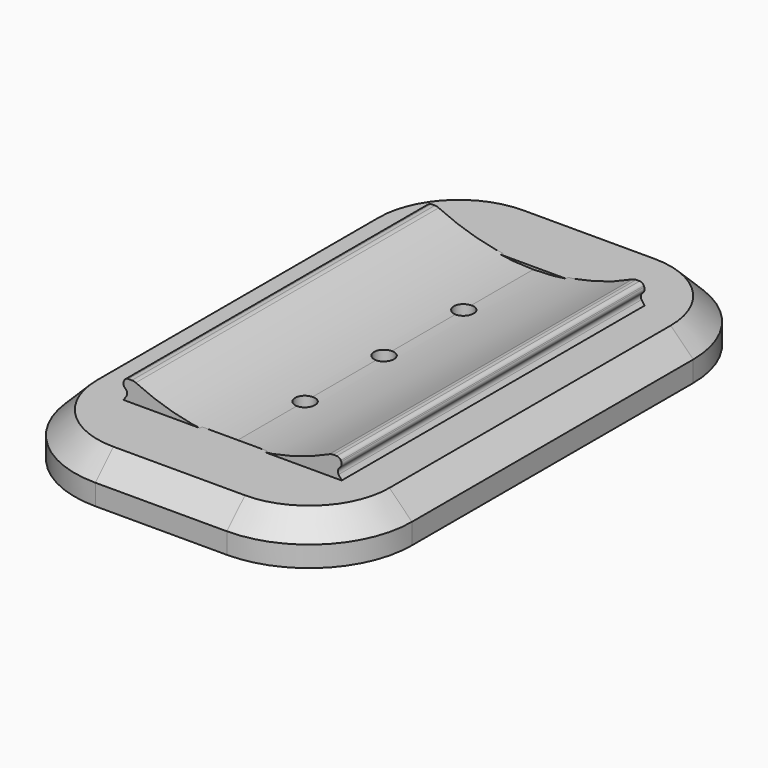
from build123d import *

# Parameters (mm, degrees)
F1_DEPTH = 420
F2_R     = 15
F4_R     = 11
F5_DEPTH = 267.30682
F7_DEPTH = 48
F8_SIZE  = 25


with BuildPart() as f1:
    # F0 (on Front) → F1 (new body)
    with BuildSketch(Plane.XZ):
        with BuildLine():
            ThreePointArc((107.3313503971, -227.4472053509), (54.9967174214, -245.4131436433), (0, -251.5))
            ThreePointArc((0, -251.5), (-54.9967174214, -245.4131436433), (-107.3313503971, -227.4472053509))
            ThreePointArc((-107.3313503971, -227.4472053509), (-109.4122503167, -226.7328539277), (-111.5989985243, -226.4908318062))
            Line((-111.5989985243, -226.4908318062), (-115.5849863759, -226.4908318062))
            ThreePointArc((-115.5849863759, -226.4908318062), (-118.314404082, -227.3015264955), (-120.1587320123, -229.4707202118))
            Line((-120.1587320123, -229.4707202118), (-120.6540180688, -230.5921000634))
            ThreePointArc((-120.6540180688, -230.5921000634), (-120.9951885473, -233.5306884315), (-119.615804389, -236.147747513))
            Line((-119.615804389, -236.147747513), (-118.2461160869, -237.5174343047))
            ThreePointArc((-118.2461160869, -237.5174343047), (-116.80081912, -240.6155421838), (-117.6839910893, -243.9181416183))
            Line((-117.6839910893, -243.9181416183), (-121, -248.6605687893))
            Line((-121, -248.6605687893), (-88, -248.6605687893))
            Line((-88, -248.6605687893), (-88, -272.8605687893))
            ThreePointArc((-88, -272.8605687893), (-44.5407955032, -283.2190098421), (0, -286.7))
            ThreePointArc((0, -286.7), (44.5407955032, -283.2190098421), (88, -272.8605687893))
            Line((88, -272.8605687893), (88, -248.6605687893))
            Line((88, -248.6605687893), (121, -248.6605687893))
            Line((121, -248.6605687893), (117.6839910893, -243.9181416183))
            ThreePointArc((117.6839910893, -243.9181416183), (116.80081912, -240.6155421838), (118.2461160869, -237.5174343047))
            Line((118.2461160869, -237.5174343047), (119.615804389, -236.147747513))
            ThreePointArc((119.615804389, -236.147747513), (120.9951885473, -233.5306884315), (120.6540180688, -230.5921000634))
            Line((120.6540180688, -230.5921000634), (120.1587320123, -229.4707202118))
            ThreePointArc((120.1587320123, -229.4707202118), (118.314404082, -227.3015264955), (115.5849863759, -226.4908318062))
            Line((115.5849863759, -226.4908318062), (111.5989985243, -226.4908318062))
            ThreePointArc((111.5989985243, -226.4908318062), (109.4122503167, -226.7328539277), (107.3313503971, -227.4472053509))
        make_face()
    extrude(amount=F1_DEPTH)

    # F2
    f2_edges = [f1.edges().sort_by_distance(p)[0] for p in [
        (88, -420, -260.760569),
        (-88, -420, -260.760569),
        (88, 0, -260.760569),
        (-88, 0, -260.760569),
    ]]
    fillet(f2_edges, radius=F2_R)

    # F4 (on offset) → F5 (cut)
    with BuildSketch(Plane.XY.offset(-500)):
        with Locations((0.5412878685, -100)):
            Circle(F4_R)
        with Locations((0.1379112946, -210)):
            Circle(F4_R)
        with Locations((0.5412878685, -320)):
            Circle(F4_R)
    extrude(amount=F5_DEPTH, mode=Mode.SUBTRACT)


with BuildPart() as f7:
    # F6 (on face) → F7 (new body)
    with BuildSketch(Plane(origin=(0, 0, -248.6605687893), x_dir=(1, 0, 0), z_dir=(0, 0, -1))):
        with BuildLine():
            Line((-187, 405), (-187, 15))
            ThreePointArc((-187, 15), (-153.6101730553, -65.6101730553), (-73, -99))
            Line((-73, -99), (73, -99))
            ThreePointArc((73, -99), (153.6101730553, -65.6101730553), (187, 15))
            Line((187, 15), (187, 405))
            ThreePointArc((187, 405), (153.6101730553, 485.6101730553), (73, 519))
            Line((73, 519), (-73, 519))
            ThreePointArc((-73, 519), (-153.6101730553, 485.6101730553), (-187, 405))
        make_face()
        with BuildLine():
            Line((-88, 405), (-88, 15))
            ThreePointArc((-88, 15), (-83.6066017178, 4.3933982822), (-73, 0))
            Line((-73, 0), (-121, 0))
            Line((-121, 0), (-121, 420))
            Line((-121, 420), (-73, 420))
            ThreePointArc((-73, 420), (-83.6066017178, 415.6066017178), (-88, 405))
        make_face(mode=Mode.SUBTRACT)
        with BuildLine():
            ThreePointArc((-73, 3), (-81.4852813742, 6.5147186258), (-85, 15))
            Line((-85, 15), (-85, 405))
            ThreePointArc((-85, 405), (-81.4852813742, 413.4852813742), (-73, 417))
            Line((-73, 417), (73, 417))
            ThreePointArc((73, 417), (81.4852813742, 413.4852813742), (85, 405))
            Line((85, 405), (85, 15))
            ThreePointArc((85, 15), (81.4852813742, 6.5147186258), (73, 3))
            Line((73, 3), (-73, 3))
        make_face(mode=Mode.SUBTRACT)
        with BuildLine():
            ThreePointArc((-73, 0), (-83.6066017178, 4.3933982822), (-88, 15))
            Line((-88, 15), (-88, 405))
            ThreePointArc((-88, 405), (-83.6066017178, 415.6066017178), (-73, 420))
            Line((-73, 420), (-121, 420))
            Line((-121, 420), (-121, 0))
            Line((-121, 0), (-73, 0))
        make_face()
    extrude(amount=F7_DEPTH)

    # F8
    f8_edges = [f7.edges().sort_by_distance(p)[0] for p in [
        (0, -519, -248.660569),
    ]]
    chamfer(f8_edges, length=F8_SIZE)


solid = Compound([f1.part, f7.part])
